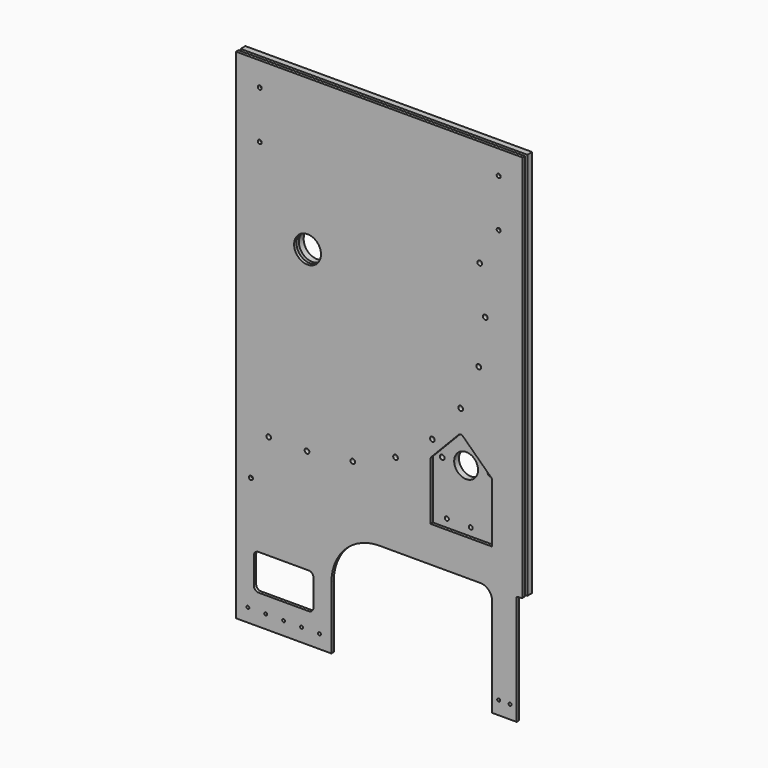
from build123d import *

# Parameters (mm, degrees)
F0_R     = 2.4892
F1_DEPTH = 6.35
F2_R     = 2.1082
F2_R_2   = 2.4892
F2_R_3   = 12.7
F2_R_4   = 14.2875
F3_DEPTH = 6.35
F4_W     = 63.5
F4_H     = 38.1
F4_R     = 2.1082
F4_R_2   = 2.4892
F4_R_3   = 14.2875
F4_W_2   = 65.542896
F4_W_3   = 25.990348
F4_H_2   = 92.075
F4_W_4   = 101.6
F4_H_3   = 22.225
F4_R_4   = 1.5875
F4_H_4   = 3.175
F4_W_5   = 6.35
F4_H_5   = 412.75
F5_DEPTH = 3.175
F6_R     = 269.208434
F7_R     = 12.7
F8_R     = 5.08
F9_R     = 1.27


with BuildPart() as f1:
    # F0 (on Front) → F1 (new body)
    with BuildSketch(Plane.XZ):
        with BuildLine():
            ThreePointArc((172.616235, 59.436536), (148.626964, -106.014583), (0, -182.5625))
            Line((0, -182.5625), (-41.275, -182.5625))
            Line((-41.275, -182.5625), (-76.2, -188.9125))
            Line((-76.2, -188.9125), (-76.2, -195.2625))
            Line((-76.2, -195.2625), (0, -195.2625))
            ThreePointArc((0, -195.2625), (157.691424, -115.155802), (185.996618, 59.436536))
            Line((185.996618, 59.436536), (172.616235, 59.436536))
        make_face()
        with Locations((-41.275, -188.911604)):
            Circle(F0_R, mode=Mode.SUBTRACT)
        with Locations((-0.58168, -188.911604)):
            Circle(F0_R, mode=Mode.SUBTRACT)
        with Locations((48.104352, -182.685259)):
            Circle(F0_R, mode=Mode.SUBTRACT)
        with Locations((93.543122, -164.126832)):
            Circle(F0_R, mode=Mode.SUBTRACT)
        with Locations((132.667308, -134.4891)):
            Circle(F0_R, mode=Mode.SUBTRACT)
        with Locations((162.835849, -95.772745)):
            Circle(F0_R, mode=Mode.SUBTRACT)
        with Locations((182.012234, -50.591297)):
            Circle(F0_R, mode=Mode.SUBTRACT)
        with Locations((188.901969, -1.994706)):
            Circle(F0_R, mode=Mode.SUBTRACT)
        with Locations((183.039965, 46.736536)):
            Circle(F0_R, mode=Mode.SUBTRACT)
        with BuildLine():
            ThreePointArc((172.616235, 59.436536), (148.626964, -106.014583), (0, -182.5625))
            Line((0, -182.5625), (-41.275, -182.5625))
            Line((-41.275, -182.5625), (-76.2, -188.9125))
            Line((-76.2, -188.9125), (-76.2, -195.2625))
            Line((-76.2, -195.2625), (0, -195.2625))
            ThreePointArc((0, -195.2625), (157.691424, -115.155802), (185.996618, 59.436536))
            Line((185.996618, 59.436536), (172.616235, 59.436536))
        make_face()
        with Locations((-41.275, -188.911604)):
            Circle(F0_R, mode=Mode.SUBTRACT)
        with Locations((-0.58168, -188.911604)):
            Circle(F0_R, mode=Mode.SUBTRACT)
        with Locations((48.104352, -182.685259)):
            Circle(F0_R, mode=Mode.SUBTRACT)
        with Locations((93.543122, -164.126832)):
            Circle(F0_R, mode=Mode.SUBTRACT)
        with Locations((132.667308, -134.4891)):
            Circle(F0_R, mode=Mode.SUBTRACT)
        with Locations((162.835849, -95.772745)):
            Circle(F0_R, mode=Mode.SUBTRACT)
        with Locations((182.012234, -50.591297)):
            Circle(F0_R, mode=Mode.SUBTRACT)
        with Locations((188.901969, -1.994706)):
            Circle(F0_R, mode=Mode.SUBTRACT)
        with Locations((183.039965, 46.736536)):
            Circle(F0_R, mode=Mode.SUBTRACT)
    extrude(amount=F1_DEPTH)

    # F6
    f6_edges = [f1.edges().sort_by_distance(p)[0] for p in [
        (-41.275, -3.175, -182.5625),
    ]]
    fillet(f6_edges, radius=F6_R)


with BuildPart() as f3:
    # F2 (on face) → F3 (new body)
    with BuildSketch(Plane.XZ):
        Polygon((-76.2, -195.2625), (-76.2, -252.4125), (228.6, -252.4125), (228.6, -195.2625), (0, -195.2625), align=None)
        with Locations((-60.198, -233.3625)):
            Circle(F2_R, mode=Mode.SUBTRACT)
        with Locations((-34.798, -233.3625)):
            Circle(F2_R, mode=Mode.SUBTRACT)
        with Locations((-60.198, -207.9625)):
            Circle(F2_R, mode=Mode.SUBTRACT)
        with Locations((-34.798, -207.9625)):
            Circle(F2_R, mode=Mode.SUBTRACT)
        with Locations((-9.398, -233.3625)):
            Circle(F2_R, mode=Mode.SUBTRACT)
        with Locations((16.002, -233.3625)):
            Circle(F2_R, mode=Mode.SUBTRACT)
        with Locations((-9.398, -207.9625)):
            Circle(F2_R, mode=Mode.SUBTRACT)
        with Locations((16.002, -207.9625)):
            Circle(F2_R, mode=Mode.SUBTRACT)
        with Locations((41.402, -233.3625)):
            Circle(F2_R, mode=Mode.SUBTRACT)
        with Locations((66.802, -233.3625)):
            Circle(F2_R, mode=Mode.SUBTRACT)
        with Locations((92.202, -233.3625)):
            Circle(F2_R, mode=Mode.SUBTRACT)
        with Locations((41.402, -207.9625)):
            Circle(F2_R, mode=Mode.SUBTRACT)
        with Locations((66.802, -207.9625)):
            Circle(F2_R, mode=Mode.SUBTRACT)
        with Locations((92.202, -207.9625)):
            Circle(F2_R, mode=Mode.SUBTRACT)
        with Locations((117.602, -233.3625)):
            Circle(F2_R, mode=Mode.SUBTRACT)
        with Locations((143.002, -233.3625)):
            Circle(F2_R, mode=Mode.SUBTRACT)
        with Locations((117.602, -207.9625)):
            Circle(F2_R, mode=Mode.SUBTRACT)
        with Locations((143.002, -207.9625)):
            Circle(F2_R, mode=Mode.SUBTRACT)
        with Locations((168.402, -233.3625)):
            Circle(F2_R, mode=Mode.SUBTRACT)
        with Locations((193.802, -233.3625)):
            Circle(F2_R, mode=Mode.SUBTRACT)
        with Locations((168.402, -207.9625)):
            Circle(F2_R, mode=Mode.SUBTRACT)
        with Locations((193.802, -207.9625)):
            Circle(F2_R, mode=Mode.SUBTRACT)
        with Locations((219.202, -233.3625)):
            Circle(F2_R, mode=Mode.SUBTRACT)
        with Locations((219.202, -207.9625)):
            Circle(F2_R, mode=Mode.SUBTRACT)
        with BuildLine():
            Line((0, -195.2625), (228.6, -195.2625))
            Line((228.6, -195.2625), (228.6, 160.3375))
            Line((228.6, 160.3375), (-76.2, 160.3375))
            Line((-76.2, 160.3375), (-76.2, -188.9125))
            Line((-76.2, -188.9125), (-41.275, -182.5625))
            Line((-41.275, -182.5625), (0, -182.5625))
            ThreePointArc((0, -182.5625), (148.626964, -106.014583), (172.616235, 59.436536))
            Line((172.616235, 59.436536), (185.996618, 59.436536))
            ThreePointArc((185.996618, 59.436536), (157.691424, -115.155802), (0, -195.2625))
        make_face()
        with Locations((138.093231, -152.18246)):
            Circle(F2_R_2, mode=Mode.SUBTRACT)
        with Locations((163.488204, -151.677155)):
            Circle(F2_R_3, mode=Mode.SUBTRACT)
        with Locations((188.883177, -151.171849)):
            Circle(F2_R_2, mode=Mode.SUBTRACT)
        Circle(F2_R_4, mode=Mode.SUBTRACT)
        with Locations((-50.8, 84.1375)):
            Circle(F2_R, mode=Mode.SUBTRACT)
        with Locations((-50.8, 134.9375)):
            Circle(F2_R, mode=Mode.SUBTRACT)
        with Locations((203.2, 84.1375)):
            Circle(F2_R, mode=Mode.SUBTRACT)
        with Locations((203.2, 134.9375)):
            Circle(F2_R, mode=Mode.SUBTRACT)
        with BuildLine():
            Line((-76.2, -188.9125), (-76.2, -195.2625))
            Line((-76.2, -195.2625), (0, -195.2625))
            ThreePointArc((0, -195.2625), (157.691424, -115.155802), (185.996618, 59.436536))
            Line((185.996618, 59.436536), (172.616235, 59.436536))
            ThreePointArc((172.616235, 59.436536), (148.626964, -106.014583), (0, -182.5625))
            Line((0, -182.5625), (-41.275, -182.5625))
            Line((-41.275, -182.5625), (-76.2, -188.9125))
        make_face()
        with Locations((-41.275, -188.911604)):
            Circle(F2_R_2, mode=Mode.SUBTRACT)
        with Locations((-0.58168, -188.911604)):
            Circle(F2_R_2, mode=Mode.SUBTRACT)
        with Locations((48.104352, -182.685259)):
            Circle(F2_R_2, mode=Mode.SUBTRACT)
        with Locations((93.543122, -164.126832)):
            Circle(F2_R_2, mode=Mode.SUBTRACT)
        with Locations((132.667308, -134.4891)):
            Circle(F2_R_2, mode=Mode.SUBTRACT)
        with Locations((162.835849, -95.772745)):
            Circle(F2_R_2, mode=Mode.SUBTRACT)
        with Locations((182.012234, -50.591297)):
            Circle(F2_R_2, mode=Mode.SUBTRACT)
        with Locations((188.901969, -1.994706)):
            Circle(F2_R_2, mode=Mode.SUBTRACT)
        with Locations((183.039965, 46.736536)):
            Circle(F2_R_2, mode=Mode.SUBTRACT)
        with BuildLine():
            Line((0, -195.2625), (228.6, -195.2625))
            Line((228.6, -195.2625), (228.6, 160.3375))
            Line((228.6, 160.3375), (-76.2, 160.3375))
            Line((-76.2, 160.3375), (-76.2, -188.9125))
            Line((-76.2, -188.9125), (-41.275, -182.5625))
            Line((-41.275, -182.5625), (0, -182.5625))
            ThreePointArc((0, -182.5625), (148.626964, -106.014583), (172.616235, 59.436536))
            Line((172.616235, 59.436536), (185.996618, 59.436536))
            ThreePointArc((185.996618, 59.436536), (157.691424, -115.155802), (0, -195.2625))
        make_face()
        with Locations((138.093231, -152.18246)):
            Circle(F2_R_2, mode=Mode.SUBTRACT)
        with Locations((163.488204, -151.677155)):
            Circle(F2_R_3, mode=Mode.SUBTRACT)
        with Locations((188.883177, -151.171849)):
            Circle(F2_R_2, mode=Mode.SUBTRACT)
        Circle(F2_R_4, mode=Mode.SUBTRACT)
        with Locations((-50.8, 84.1375)):
            Circle(F2_R, mode=Mode.SUBTRACT)
        with Locations((-50.8, 134.9375)):
            Circle(F2_R, mode=Mode.SUBTRACT)
        with Locations((203.2, 84.1375)):
            Circle(F2_R, mode=Mode.SUBTRACT)
        with Locations((203.2, 134.9375)):
            Circle(F2_R, mode=Mode.SUBTRACT)
    extrude(amount=-F3_DEPTH)


with BuildPart() as f5:
    # F4 (on face) → F5 (new body)
    with BuildSketch(Plane.XZ.offset(6.35)):
        with BuildLine():
            Line((222.25, 160.3375), (-76.2, 160.3375))
            Line((-76.2, 160.3375), (-76.2, -252.4125))
            Line((-76.2, -252.4125), (-76.2, -344.4875))
            Line((-76.2, -344.4875), (25.4, -344.4875))
            Line((25.4, -344.4875), (25.4, -303.2125))
            ThreePointArc((25.4, -303.2125), (40.278976, -267.291476), (76.2, -252.4125))
            Line((76.2, -252.4125), (130.716756, -252.4125))
            Line((130.716756, -252.4125), (130.716756, -214.3125))
            Line((130.716756, -214.3125), (130.716756, -153.607512))
            ThreePointArc((130.716756, -153.607512), (130.765565, -153.052937), (130.910491, -152.515412))
            ThreePointArc((130.910491, -152.515412), (131.198894, -151.925514), (131.602473, -151.407556))
            Line((131.602473, -151.407556), (160.636166, -121.19499))
            ThreePointArc((160.636166, -121.19499), (162.862286, -120.220575), (165.125405, -121.105664))
            Line((165.125405, -121.105664), (195.284609, -150.088076))
            ThreePointArc((195.284609, -150.088076), (195.731151, -150.623315), (196.050133, -151.243099))
            ThreePointArc((196.050133, -151.243099), (196.206833, -151.800634), (196.259652, -152.377358))
            Line((196.259652, -152.377358), (196.259652, -214.3125))
            Line((196.259652, -214.3125), (196.259652, -252.4125))
            Line((196.259652, -252.4125), (222.25, -252.4125))
            Line((222.25, -252.4125), (222.25, 160.3375))
        make_face()
        with Locations((-25.4, -319.0875)):
            Rectangle(F4_W, F4_H, mode=Mode.SUBTRACT)
        with Locations((-60.198, -233.3625)):
            Circle(F4_R, mode=Mode.SUBTRACT)
        with Locations((-41.275, -188.911604)):
            Circle(F4_R_2, mode=Mode.SUBTRACT)
        with Locations((-0.58168, -188.911604)):
            Circle(F4_R_2, mode=Mode.SUBTRACT)
        with Locations((48.104352, -182.685259)):
            Circle(F4_R_2, mode=Mode.SUBTRACT)
        with Locations((93.543122, -164.126832)):
            Circle(F4_R_2, mode=Mode.SUBTRACT)
        with Locations((132.667308, -134.4891)):
            Circle(F4_R_2, mode=Mode.SUBTRACT)
        Circle(F4_R_3, mode=Mode.SUBTRACT)
        with Locations((-50.8, 84.1375)):
            Circle(F4_R, mode=Mode.SUBTRACT)
        with Locations((-50.8, 134.9375)):
            Circle(F4_R, mode=Mode.SUBTRACT)
        with Locations((162.835849, -95.772745)):
            Circle(F4_R_2, mode=Mode.SUBTRACT)
        with Locations((182.012234, -50.591297)):
            Circle(F4_R_2, mode=Mode.SUBTRACT)
        with Locations((188.901969, -1.994706)):
            Circle(F4_R_2, mode=Mode.SUBTRACT)
        with Locations((183.039965, 46.736536)):
            Circle(F4_R_2, mode=Mode.SUBTRACT)
        with Locations((203.2, 84.1375)):
            Circle(F4_R, mode=Mode.SUBTRACT)
        with Locations((203.2, 134.9375)):
            Circle(F4_R, mode=Mode.SUBTRACT)
        with BuildLine():
            Line((222.25, 160.3375), (-76.2, 160.3375))
            Line((-76.2, 160.3375), (-76.2, -252.4125))
            Line((-76.2, -252.4125), (-76.2, -344.4875))
            Line((-76.2, -344.4875), (25.4, -344.4875))
            Line((25.4, -344.4875), (25.4, -303.2125))
            ThreePointArc((25.4, -303.2125), (40.278976, -267.291476), (76.2, -252.4125))
            Line((76.2, -252.4125), (130.716756, -252.4125))
            Line((130.716756, -252.4125), (130.716756, -214.3125))
            Line((130.716756, -214.3125), (130.716756, -153.607512))
            ThreePointArc((130.716756, -153.607512), (130.765565, -153.052937), (130.910491, -152.515412))
            ThreePointArc((130.910491, -152.515412), (131.198894, -151.925514), (131.602473, -151.407556))
            Line((131.602473, -151.407556), (160.636166, -121.19499))
            ThreePointArc((160.636166, -121.19499), (162.862286, -120.220575), (165.125405, -121.105664))
            Line((165.125405, -121.105664), (195.284609, -150.088076))
            ThreePointArc((195.284609, -150.088076), (195.731151, -150.623315), (196.050133, -151.243099))
            ThreePointArc((196.050133, -151.243099), (196.206833, -151.800634), (196.259652, -152.377358))
            Line((196.259652, -152.377358), (196.259652, -214.3125))
            Line((196.259652, -214.3125), (196.259652, -252.4125))
            Line((196.259652, -252.4125), (222.25, -252.4125))
            Line((222.25, -252.4125), (222.25, 160.3375))
        make_face()
        with Locations((-25.4, -319.0875)):
            Rectangle(F4_W, F4_H, mode=Mode.SUBTRACT)
        with Locations((-60.198, -233.3625)):
            Circle(F4_R, mode=Mode.SUBTRACT)
        with Locations((-41.275, -188.911604)):
            Circle(F4_R_2, mode=Mode.SUBTRACT)
        with Locations((-0.58168, -188.911604)):
            Circle(F4_R_2, mode=Mode.SUBTRACT)
        with Locations((48.104352, -182.685259)):
            Circle(F4_R_2, mode=Mode.SUBTRACT)
        with Locations((93.543122, -164.126832)):
            Circle(F4_R_2, mode=Mode.SUBTRACT)
        with Locations((132.667308, -134.4891)):
            Circle(F4_R_2, mode=Mode.SUBTRACT)
        Circle(F4_R_3, mode=Mode.SUBTRACT)
        with Locations((-50.8, 84.1375)):
            Circle(F4_R, mode=Mode.SUBTRACT)
        with Locations((-50.8, 134.9375)):
            Circle(F4_R, mode=Mode.SUBTRACT)
        with Locations((162.835849, -95.772745)):
            Circle(F4_R_2, mode=Mode.SUBTRACT)
        with Locations((182.012234, -50.591297)):
            Circle(F4_R_2, mode=Mode.SUBTRACT)
        with Locations((188.901969, -1.994706)):
            Circle(F4_R_2, mode=Mode.SUBTRACT)
        with Locations((183.039965, 46.736536)):
            Circle(F4_R_2, mode=Mode.SUBTRACT)
        with Locations((203.2, 84.1375)):
            Circle(F4_R, mode=Mode.SUBTRACT)
        with Locations((203.2, 134.9375)):
            Circle(F4_R, mode=Mode.SUBTRACT)
        with Locations((163.488204, -233.3625)):
            Rectangle(F4_W_2, F4_H)
        with Locations((209.254826, -298.45)):
            Rectangle(F4_W_3, F4_H_2)
        with Locations((-25.4, -355.6)):
            Rectangle(F4_W_4, F4_H_3)
        with Locations((-63.5, -355.6)):
            Circle(F4_R_4, mode=Mode.SUBTRACT)
        with Locations((-44.45, -355.6)):
            Circle(F4_R_4, mode=Mode.SUBTRACT)
        with Locations((-25.4, -355.6)):
            Circle(F4_R_4, mode=Mode.SUBTRACT)
        with Locations((-6.35, -355.6)):
            Circle(F4_R_4, mode=Mode.SUBTRACT)
        with Locations((12.7, -355.6)):
            Circle(F4_R_4, mode=Mode.SUBTRACT)
        with Locations((209.254826, -355.6)):
            Rectangle(F4_W_3, F4_H_3)
        with Locations((203.2, -355.6)):
            Circle(F4_R_4, mode=Mode.SUBTRACT)
        with Locations((215.309652, -355.6)):
            Circle(F4_R_4, mode=Mode.SUBTRACT)
        with Locations((209.254826, -368.3)):
            Rectangle(F4_W_3, F4_H_4)
        with Locations((-25.4, -368.3)):
            Rectangle(F4_W_4, F4_H_4)
        with Locations((225.425, -46.0375)):
            Rectangle(F4_W_5, F4_H_5)
    extrude(amount=-F5_DEPTH)

    # F7
    f7_edges = [f5.edges().sort_by_distance(p)[0] for p in [
        (196.259652, -4.7625, -252.4125),
    ]]
    fillet(f7_edges, radius=F7_R)

    # F8
    f8_edges = [f5.edges().sort_by_distance(p)[0] for p in [
        (6.35, -4.7625, -300.0375),
        (-57.15, -4.7625, -300.0375),
        (-57.15, -4.7625, -338.1375),
        (6.35, -4.7625, -338.1375),
    ]]
    fillet(f8_edges, radius=F8_R)

    # F9
    f9_edges = [f5.edges().sort_by_distance(p)[0] for p in [
        (228.6, -4.7625, -252.4125),
        (222.25, -4.7625, -252.4125),
    ]]
    fillet(f9_edges, radius=F9_R)


solid = Compound([f1.part, f3.part, f5.part])
